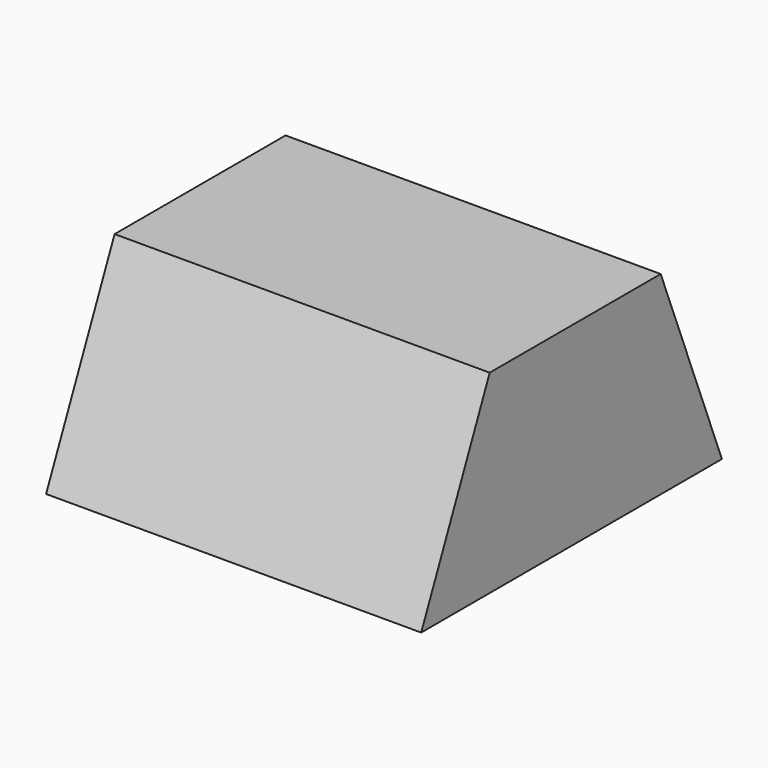
from build123d import *

# Parameters (mm, degrees)
PAD_DEPTH = 100


with BuildPart() as part:
    # Sketch → Pad (new body)
    with BuildSketch(Plane(origin=(0, 2, 0), x_dir=(0, 1, 0), z_dir=(1, 0, 0))):
        Polygon((-30.505049, 24.545456), (-53.333328, -27.171717), (46.868683, -27.171717), (26.464642, 24.545456), align=None)
    extrude(amount=PAD_DEPTH)


solid = part.part
